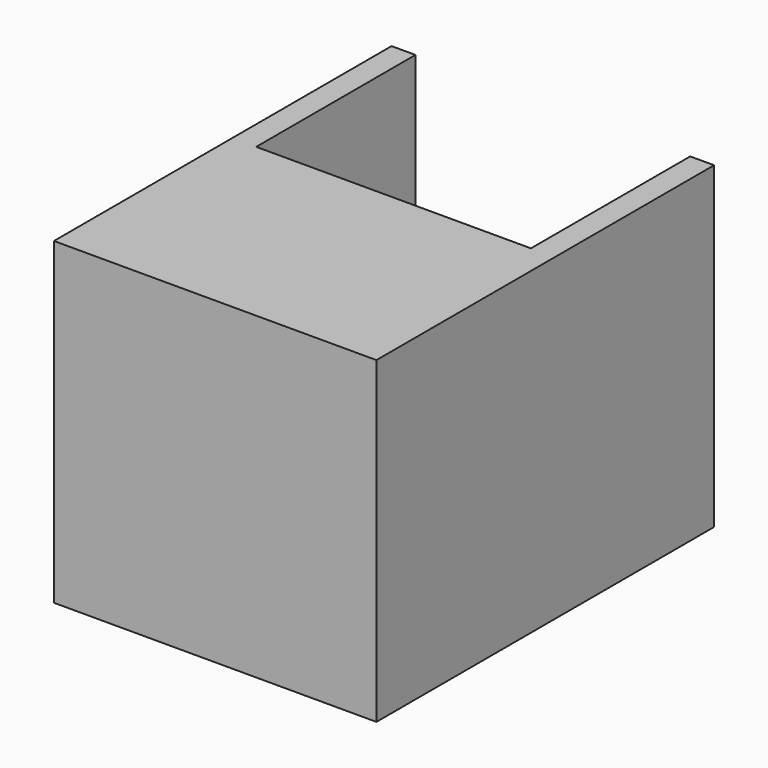
from build123d import *

# Parameters (mm, degrees)
F0_W     = 3
F0_H     = 25
F1_DEPTH = 40


with BuildPart() as f1:
    # F0 (on Top) → F1 (new body)
    with BuildSketch(Plane.XY):
        with Locations((-40.467159, 31.418108)):
            Rectangle(F0_W, F0_H)
        Polygon((-38.967159, 18.918108), (-41.967159, 18.918108), (-41.967159, -9.081892), (-1.467159, -9.081892), (-1.467159, 18.918108), (-4.467159, 18.918108), align=None)
        with Locations((-2.967159, 31.418108)):
            Rectangle(F0_W, F0_H)
    extrude(amount=F1_DEPTH)


solid = f1.part
